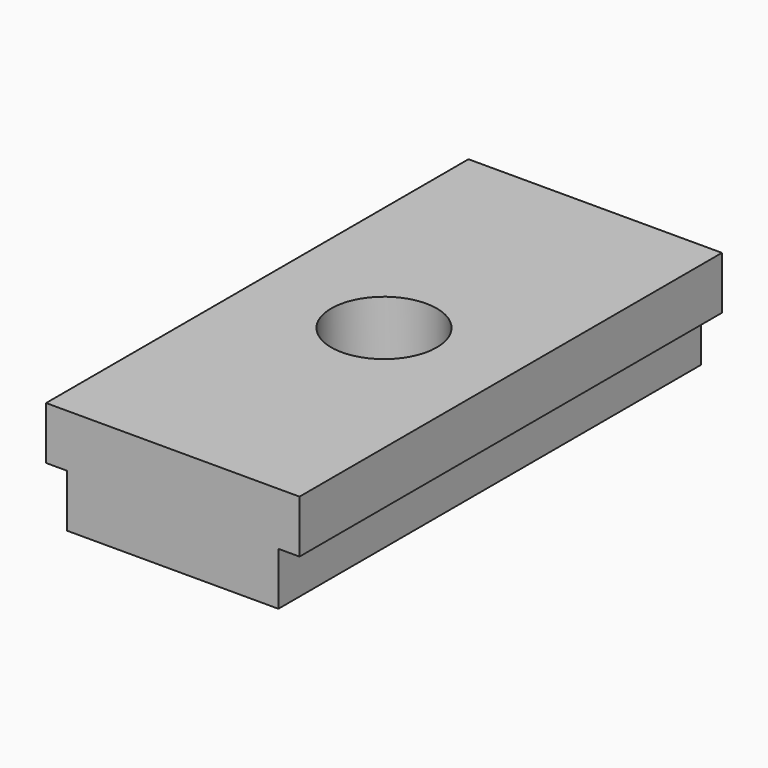
from build123d import *

# Parameters (mm, degrees)
F1_DEPTH = 25
F2_R     = 2.5
F3_DEPTH = 25


with BuildPart() as f1:
    # F0 (on Front) → F1 (new body)
    with BuildSketch(Plane.XZ):
        Polygon((6, 5.64185), (0, 5.64185), (0, 0.64185), (5, 0.64185), (5, 3.14185), (6, 3.14185), align=None)
        Polygon((0, 0.64185), (0, 5.64185), (-6, 5.64185), (-6, 3.14185), (-5, 3.14185), (-5, 0.64185), align=None)
    extrude(amount=F1_DEPTH)

    # F2 (on face) → F3 (cut)
    with BuildSketch(Plane.XY.offset(5.64185)):
        with Locations((0, -12.5)):
            Circle(F2_R)
    extrude(amount=-F3_DEPTH, mode=Mode.SUBTRACT)


solid = f1.part
